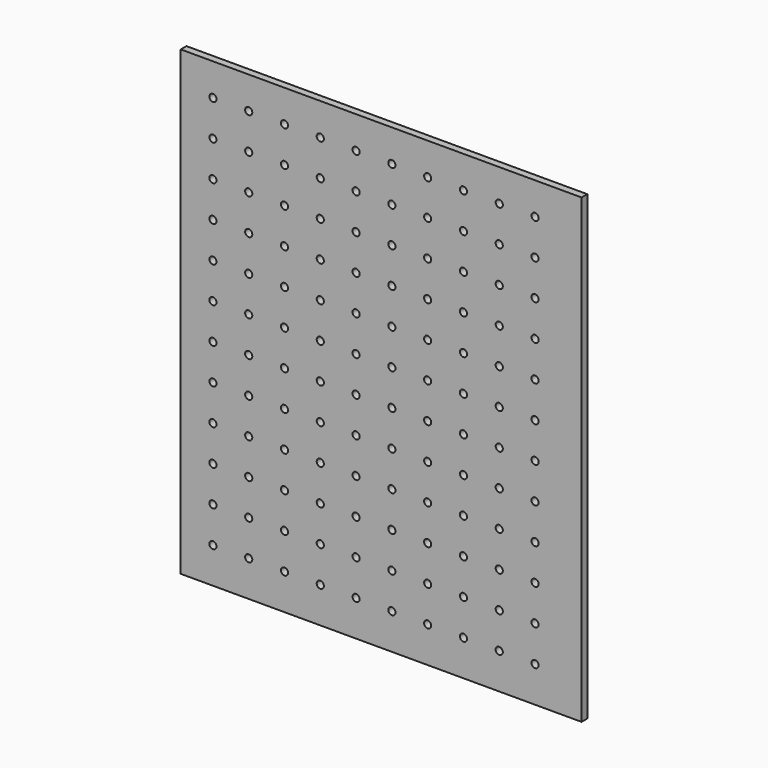
from build123d import *

# Parameters (mm, degrees)
F0_W     = 355.6
F0_H     = 409.575
F1_DEPTH = 6.35
F3_D     = 6.35
F5_D     = 6.35
F7_D     = 6.35


with BuildPart() as f1:
    # F0 (on Front) → F1 (new body)
    with BuildSketch(Plane.XZ):
        with Locations((-0.276532, -22.235246)):
            Rectangle(F0_W, F0_H)
    extrude(amount=F1_DEPTH)

    # F3 (through all)
    with Locations(Plane.XZ.offset(6.35)):
        with Locations((-149.501532, 153.977254), (-117.751532, 153.977254), (-86.001532, 153.977254), (-54.251532, 153.977254), (-22.501532, 153.977254), (9.248468, 153.977254), (40.998468, 153.977254), (72.748468, 153.977254), (104.498468, 153.977254), (136.248468, 153.977254)):
            Hole(F3_D / 2)

    # F5 (through all)
    with Locations(Plane.XZ.offset(6.35)):
        with Locations((-149.501532, 122.227254), (-117.751532, 122.227398), (-86.001532, 122.227543), (-54.251532, 122.227769), (-22.501532, 122.228077), (9.248468, 122.228339), (40.998468, 122.228629), (72.748468, 122.228826), (104.498468, 122.228887), (136.248468, 122.228947)):
            Hole(F5_D / 2)

    # F7 (through all)
    with Locations(Plane.XZ.offset(6.35)):
        with Locations((72.748468, -4.772746), (-149.501532, -68.272746), (72.748468, 90.477254), (9.248468, 90.477254), (-22.501532, -163.522746), (9.248468, -131.772746), (-149.501532, 58.727254), (136.248468, 58.727254), (136.248468, -131.772746), (40.998468, -68.272746), (-149.501532, -163.522746), (-54.251532, 58.727254), (-117.751532, -4.772746), (136.248468, -195.272746), (-22.501532, -195.272746), (136.248468, 26.977254), (-149.501532, -195.272746), (-22.501532, 58.727254), (-54.251532, 26.977254), (136.248468, 90.477254), (-149.501532, 90.477254), (-54.251532, -163.522746), (9.248468, -100.022746), (-86.001532, 90.477254), (-54.251532, -36.522746), (-22.501532, -4.772746), (40.998468, -100.022746), (40.998468, 26.977254), (-54.251532, -100.022746), (-54.251532, -195.272746), (-117.751532, -68.272746), (104.498468, -163.522746), (-22.501532, -36.522746), (-86.001532, -131.772746), (9.248468, -195.272746), (9.248468, -4.772746), (-149.501532, -100.022746), (72.748468, -195.272746), (40.998468, 90.477254), (136.248468, -68.272746), (72.748468, 26.977254), (40.998468, -36.522746), (72.748468, -163.522746), (-54.251532, -131.772746), (136.248468, -100.022746), (72.748468, -100.022746), (-54.251532, -68.272746), (-22.501532, -68.272746), (-86.001532, -68.272746), (104.498468, 26.977254), (-86.001532, -36.522746), (-86.001532, -4.772746), (-149.501532, -4.772746), (136.248468, -4.772746), (9.248468, -36.522746), (136.248468, -36.522746), (-149.501532, -131.772746), (9.248468, -163.522746), (-54.251532, -4.772746), (-117.751532, -163.522746), (40.998468, -4.772746), (-22.501532, 90.477254), (40.998468, -195.272746), (-86.001532, -195.272746), (104.498468, -4.772746), (-86.001532, -163.522746), (-149.501532, -36.522746), (-117.751532, 90.477254), (-117.751532, 26.977254), (40.998468, -131.772746), (-54.251532, 90.477254), (-86.001532, 26.977254), (-117.751532, -195.272746), (104.498468, 90.477254), (-86.001532, -100.022746), (9.248468, 58.727254), (-22.501532, 26.977254), (104.498468, -195.272746), (72.748468, 58.727254), (-117.751532, -100.022746), (9.248468, -68.272746), (72.748468, -36.522746), (-86.001532, 58.727254), (104.498468, 58.727254), (40.998468, 58.727254), (104.498468, -100.022746), (136.248468, -163.522746), (104.498468, -131.772746), (72.748468, -68.272746), (-117.751532, 58.727254), (-22.501532, -131.772746), (72.748468, -131.772746), (40.998468, -163.522746), (104.498468, -68.272746), (-149.501532, 26.977254), (-117.751532, -131.772746), (-22.501532, -100.022746), (-117.751532, -36.522746), (104.498468, -36.522746), (9.248468, 26.977254)):
            Hole(F7_D / 2)


solid = f1.part
